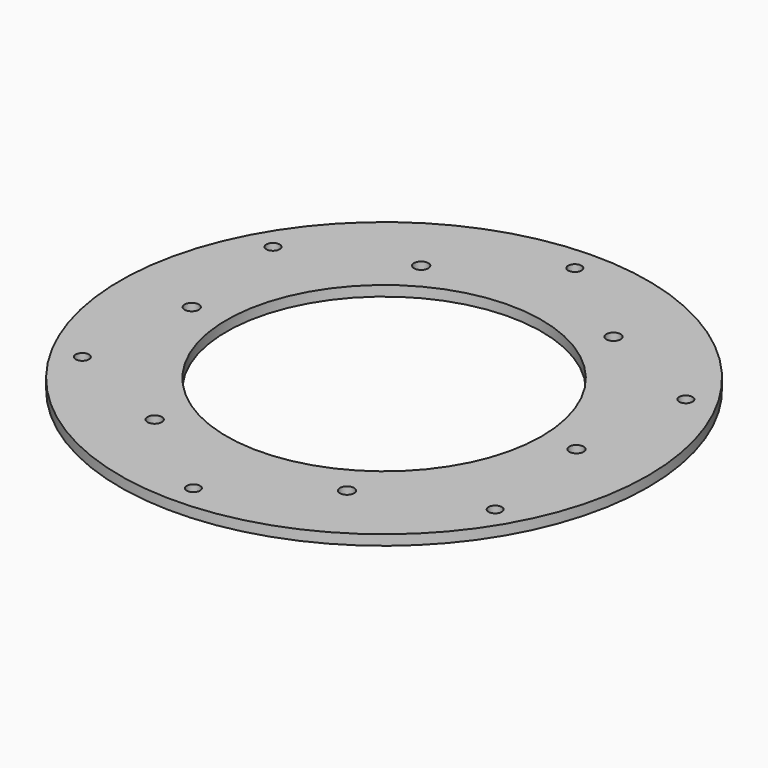
from build123d import *

# Parameters (mm, degrees)
F0_R     = 129
F0_R_2   = 3.5
F0_R_3   = 3.25
F0_R_4   = 77
F1_DEPTH = 5


with BuildPart() as f1:
    # F0 (on Top) → F1 (new body)
    with BuildSketch(Plane.XY):
        Circle(F0_R)
        with Locations((-47, -81.406388)):
            Circle(F0_R_2, mode=Mode.SUBTRACT)
        with Locations((-100.89196, -58.25)):
            Circle(F0_R_3, mode=Mode.SUBTRACT)
        with Locations((0, -116.5)):
            Circle(F0_R_3, mode=Mode.SUBTRACT)
        with Locations((47, -81.406388)):
            Circle(F0_R_2, mode=Mode.SUBTRACT)
        with Locations((100.89196, -58.25)):
            Circle(F0_R_3, mode=Mode.SUBTRACT)
        with Locations((-94, 0)):
            Circle(F0_R_2, mode=Mode.SUBTRACT)
        with Locations((-100.89196, 58.25)):
            Circle(F0_R_3, mode=Mode.SUBTRACT)
        with Locations((-47, 81.406388)):
            Circle(F0_R_2, mode=Mode.SUBTRACT)
        Circle(F0_R_4, mode=Mode.SUBTRACT)
        with Locations((94, 0)):
            Circle(F0_R_2, mode=Mode.SUBTRACT)
        with Locations((100.89196, 58.25)):
            Circle(F0_R_3, mode=Mode.SUBTRACT)
        with Locations((47, 81.406388)):
            Circle(F0_R_2, mode=Mode.SUBTRACT)
        with Locations((0, 116.5)):
            Circle(F0_R_3, mode=Mode.SUBTRACT)
    extrude(amount=F1_DEPTH)


solid = f1.part
